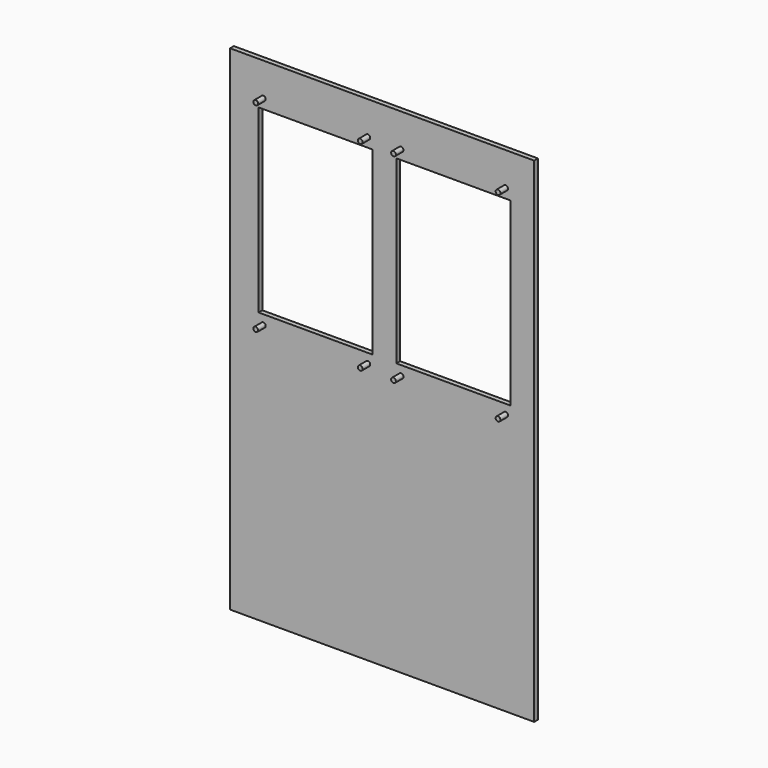
from build123d import *

# Parameters (mm, degrees)
F0_W     = 406.4
F0_H     = 660.4
F1_DEPTH = 6.35
F2_W     = 152.4
F2_H     = 241.3
F3_DEPTH = 6.351
F4_R     = 3.175
F5_DEPTH = 12.7


with BuildPart() as f1:
    # F0 (on Front) → F1 (new body)
    with BuildSketch(Plane.XZ):
        with Locations((203.2, 330.2)):
            Rectangle(F0_W, F0_H)
    extrude(amount=F1_DEPTH)

    # F2 (on face) → F3 (cut, through all)
    with BuildSketch(Plane.XZ.offset(6.35)):
        with Locations((114.3, 482.6)):
            Rectangle(F2_W, F2_H)
        with Locations((298.45, 482.6)):
            Rectangle(F2_W, F2_H)
    extrude(amount=-F3_DEPTH, mode=Mode.SUBTRACT)

    # F4 (on face) → F5 (join)
    with BuildSketch(Plane.XZ.offset(6.35)):
        with Locations((44.45, 615.95)):
            Circle(F4_R)
        with Locations((184.15, 615.95)):
            Circle(F4_R)
        with Locations((44.45, 349.25)):
            Circle(F4_R)
        with Locations((184.15, 349.25)):
            Circle(F4_R)
        with Locations((228.6, 615.95)):
            Circle(F4_R)
        with Locations((368.3, 615.95)):
            Circle(F4_R)
        with Locations((228.6, 349.25)):
            Circle(F4_R)
        with Locations((368.3, 349.25)):
            Circle(F4_R)
    extrude(amount=F5_DEPTH)


solid = f1.part
